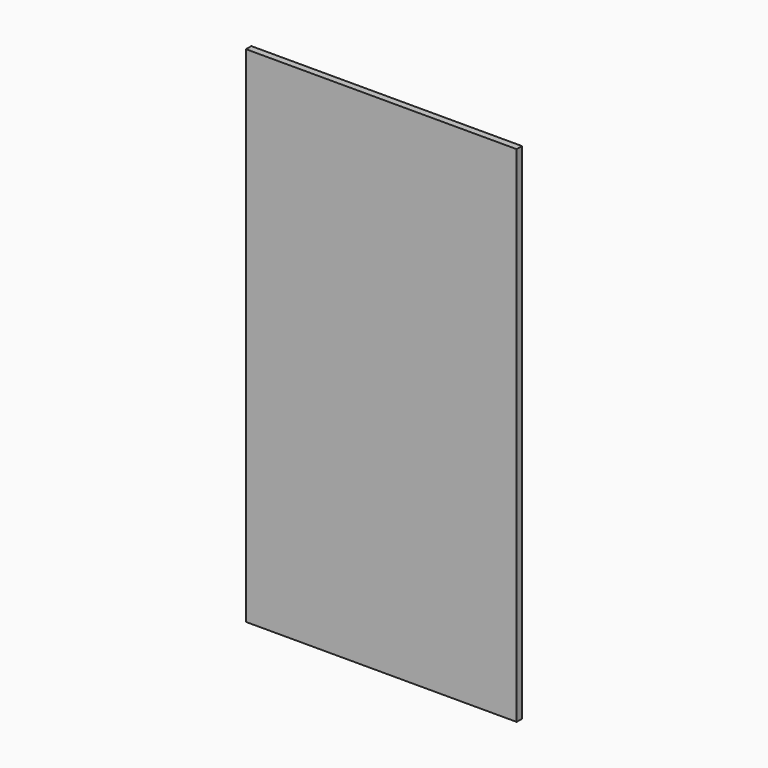
from build123d import *

# Parameters (mm, degrees)
F0_W     = 80.7329192758
F0_H     = 10.7643902302
F0_H_2   = 10.4811191559
F0_H_3   = 10.7643865049
F1_DEPTH = 2
F0_H_4   = 10.197840631
F0_H_5   = 54.6717643738
F2_DEPTH = 2


with BuildPart() as f1:
    # F0 (on Front) → F1 (new body)
    with BuildSketch(Plane.XZ):
        with Locations((0, 69.8268935084)):
            Rectangle(F0_W, F0_H)
        with Locations((0, 59.2041388154)):
            Rectangle(F0_W, F0_H_2)
        with Locations((0, 48.581385985)):
            Rectangle(F0_W, F0_H_3)
        with Locations((0, 37.8169976175)):
            Rectangle(F0_W, F0_H)
    extrude(amount=F1_DEPTH)

    # F0 (on Front) → F2 (join)
    with BuildSketch(Plane.XZ):
        with Locations((0, -59.7706884146)):
            Rectangle(F0_W, F0_H_2)
        with Locations((0, 37.8169976175)):
            Rectangle(F0_W, F0_H)
        with Locations((0, 48.581385985)):
            Rectangle(F0_W, F0_H_3)
        with Locations((0, 69.8268935084)):
            Rectangle(F0_W, F0_H)
        with Locations((0, -49.1479337215)):
            Rectangle(F0_W, F0_H)
        with Locations((0, -38.383545354)):
            Rectangle(F0_W, F0_H_3)
        with Locations((0, -70.110168308)):
            Rectangle(F0_W, F0_H_4)
        with Locations((0, -27.6191569865)):
            Rectangle(F0_W, F0_H)
        with Locations((0, 59.2041388154)):
            Rectangle(F0_W, F0_H_2)
        with Locations((0, 5.0989203155)):
            Rectangle(F0_W, F0_H_5)
    extrude(amount=F2_DEPTH)


solid = f1.part
